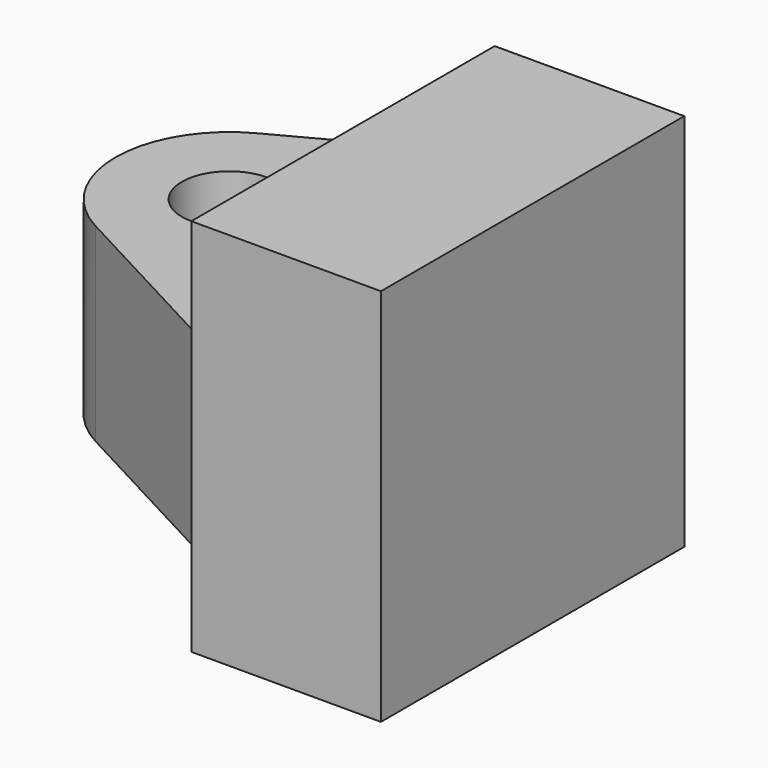
from build123d import *

# Parameters (mm, degrees)
F0_W     = 20
F0_H     = 20
F1_DEPTH = 10
F2_W     = 12
F2_H     = 10
F3_DEPTH = 20
F5_DEPTH = 25
F6_D     = 5


with BuildPart() as f1:
    # F0 (on Right) → F1 (new body)
    with BuildSketch(Plane.YZ):
        with Locations((-4.31253016, -12.6576695228)):
            Rectangle(F0_W, F0_H)
    extrude(amount=F1_DEPTH)

    # F2 (on face) → F3 (join, through all)
    with BuildSketch(Plane.XZ.offset(14.31253016)):
        with Locations((-6, -12.6576695228)):
            Rectangle(F2_W, F2_H)
    extrude(amount=-F3_DEPTH)

    # F4 (on face) → F5 (cut)
    with BuildSketch(Plane.XY.offset(-7.6576695228)):
        with BuildLine():
            ThreePointArc((-12, -4.31253016), (-11.1449575543, -1.2255556274), (-8.8235294118, 0.9815874871))
            Line((-8.8235294118, 0.9815874871), (0, 5.68746984))
            Line((0, 5.68746984), (-12, 5.68746984))
            Line((-12, 5.68746984), (-12, -4.31253016))
        make_face()
        with BuildLine():
            ThreePointArc((-8.8235294118, -9.606647807), (-11.1449575543, -7.3995046925), (-12, -4.31253016))
            Line((-12, -4.31253016), (-12, -14.31253016))
            Line((-12, -14.31253016), (0, -14.31253016))
            Line((0, -14.31253016), (-8.8235294118, -9.606647807))
        make_face()
    extrude(amount=-F5_DEPTH, mode=Mode.SUBTRACT)

    # F6 (through all)
    with Locations(Plane.XY.offset(-7.6576695228)):
        with Locations((-6, -4.31253016)):
            Hole(F6_D / 2)


solid = f1.part
